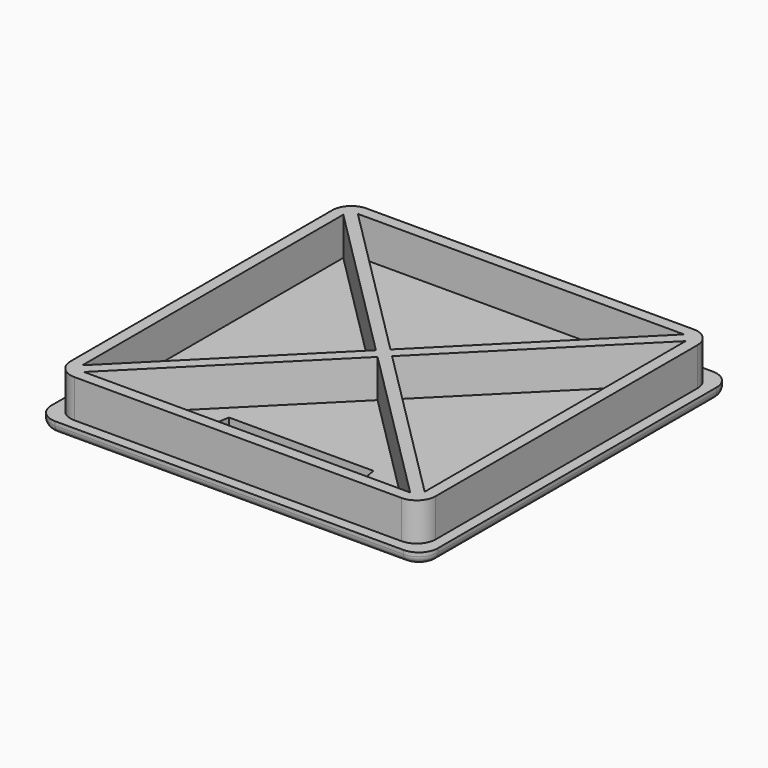
from build123d import *

# Parameters (mm, degrees)
F2_DEPTH = 3
F3_DEPTH = 10
F4_R     = 2
F6_DEPTH = 4.4


with BuildPart() as f2:
    # F1 (on Top) → F2 (new body)
    with BuildSketch(Plane.XY):
        with BuildLine():
            Line((45.8, 50.8), (-45.8, 50.8))
            ThreePointArc((-45.8, 50.8), (-49.3355339059, 49.3355339059), (-50.8, 45.8))
            Line((-50.8, 45.8), (-50.8, -45.8))
            ThreePointArc((-50.8, -45.8), (-49.3355339059, -49.3355339059), (-45.8, -50.8))
            Line((-45.8, -50.8), (45.8, -50.8))
            ThreePointArc((45.8, -50.8), (49.3355339059, -49.3355339059), (50.8, -45.8))
            Line((50.8, -45.8), (50.8, 45.8))
            ThreePointArc((50.8, 45.8), (49.3355339059, 49.3355339059), (45.8, 50.8))
        make_face()
        with BuildLine():
            ThreePointArc((-48, 43), (-46.5355339059, 46.5355339059), (-43, 48))
            Line((-43, 48), (43, 48))
            ThreePointArc((43, 48), (46.5355339059, 46.5355339059), (48, 43))
            Line((48, 43), (48, -43))
            ThreePointArc((48, -43), (46.5355339059, -46.5355339059), (43, -48))
            Line((43, -48), (-43, -48))
            ThreePointArc((-43, -48), (-46.5355339059, -46.5355339059), (-48, -43))
            Line((-48, -43), (-48, 43))
        make_face(mode=Mode.SUBTRACT)
        with BuildLine():
            Line((43, 48), (-43, 48))
            ThreePointArc((-43, 48), (-46.5355339059, 46.5355339059), (-48, 43))
            Line((-48, 43), (-48, -43))
            ThreePointArc((-48, -43), (-46.5355339059, -46.5355339059), (-43, -48))
            Line((-43, -48), (43, -48))
            ThreePointArc((43, -48), (46.5355339059, -46.5355339059), (48, -43))
            Line((48, -43), (48, 43))
            ThreePointArc((48, 43), (46.5355339059, 46.5355339059), (43, 48))
        make_face()
        Polygon((45, -42.8786796564), (45, -45), (42.8786796564, -45), (-42.8786796564, -45), (-45, -45), (-45, -42.8786796564), (-45, 42.8786796564), (-45, 45), (-42.8786796564, 45), (42.8786796564, 45), (45, 45), (45, 42.8786796564), align=None, mode=Mode.SUBTRACT)
        Polygon((-45, 42.8786796564), (-45, -42.8786796564), (-2.1213203436, 0), align=None)
        Polygon((0, 2.1213203436), (42.8786796564, 45), (-42.8786796564, 45), align=None)
        Polygon((2.1213203436, 0), (45, -42.8786796564), (45, 42.8786796564), align=None)
        Polygon((-42.8786796564, -45), (42.8786796564, -45), (0, -2.1213203436), align=None)
        Polygon((42.8786796564, -45), (45, -45), (45, -42.8786796564), (2.1213203436, 0), (45, 42.8786796564), (45, 45), (42.8786796564, 45), (0, 2.1213203436), (-42.8786796564, 45), (-45, 45), (-45, 42.8786796564), (-2.1213203436, 0), (-45, -42.8786796564), (-45, -45), (-42.8786796564, -45), (0, -2.1213203436), align=None)
    extrude(amount=-F2_DEPTH)

    # F1 (on Top) → F3 (join)
    with BuildSketch(Plane.XY):
        with BuildLine():
            Line((43, 48), (-43, 48))
            ThreePointArc((-43, 48), (-46.5355339059, 46.5355339059), (-48, 43))
            Line((-48, 43), (-48, -43))
            ThreePointArc((-48, -43), (-46.5355339059, -46.5355339059), (-43, -48))
            Line((-43, -48), (43, -48))
            ThreePointArc((43, -48), (46.5355339059, -46.5355339059), (48, -43))
            Line((48, -43), (48, 43))
            ThreePointArc((48, 43), (46.5355339059, 46.5355339059), (43, 48))
        make_face()
        Polygon((45, -42.8786796564), (45, -45), (42.8786796564, -45), (-42.8786796564, -45), (-45, -45), (-45, -42.8786796564), (-45, 42.8786796564), (-45, 45), (-42.8786796564, 45), (42.8786796564, 45), (45, 45), (45, 42.8786796564), align=None, mode=Mode.SUBTRACT)
        Polygon((42.8786796564, -45), (45, -45), (45, -42.8786796564), (2.1213203436, 0), (45, 42.8786796564), (45, 45), (42.8786796564, 45), (0, 2.1213203436), (-42.8786796564, 45), (-45, 45), (-45, 42.8786796564), (-2.1213203436, 0), (-45, -42.8786796564), (-45, -45), (-42.8786796564, -45), (0, -2.1213203436), align=None)
    extrude(amount=F3_DEPTH)

    # F4
    f4_edges = [f2.edges().sort_by_distance(p)[0] for p in [
        (0, 50.8, -3),
        (-49.335534, 49.335534, -3),
        (-50.8, 0, -3),
        (-49.335534, -49.335534, -3),
        (0, -50.8, -3),
        (49.335534, -49.335534, -3),
        (50.8, 0, -3),
        (49.335534, 49.335534, -3),
    ]]
    fillet(f4_edges, radius=F4_R)

    # F5 (on face) → F6 (cut)
    with BuildSketch(Plane(origin=(0, 0, -3), x_dir=(1, 0, 0), z_dir=(0, 0, -1))):
        Polygon((20.75, 37.8), (-20.75, 37.8), (-19, 27.2), (19, 27.2), align=None)
    extrude(amount=-F6_DEPTH, mode=Mode.SUBTRACT)


solid = f2.part
